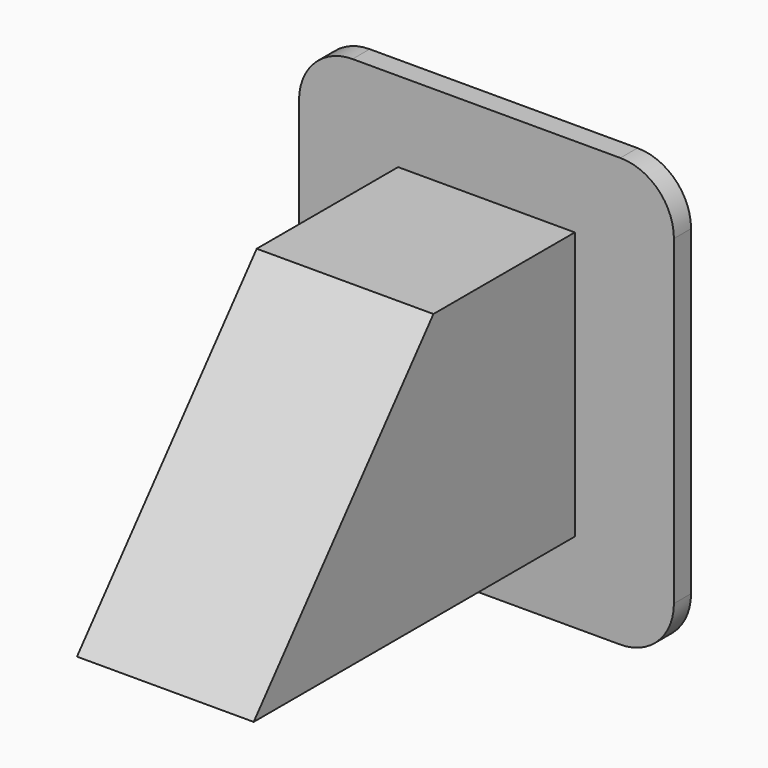
from build123d import *

# Parameters (mm, degrees)
SKETCH_W     = 70
SKETCH_H     = 80
PAD_DEPTH    = 2
PAD001_DEPTH = 12.5
PAD002_DEPTH = 4
FILLET_R     = 10


with BuildPart() as part:
    # Sketch → Pad (new body, symmetric)
    with BuildSketch(Plane.XZ):
        Rectangle(SKETCH_W, SKETCH_H)
    extrude(amount=PAD_DEPTH, both=True)

    # Sketch001 → Pad001 (join, symmetric)
    with BuildSketch(Plane.YZ):
        Polygon((0, 25), (-35, 25), (-76.954982, -25), (-71.733352, -25), (-32.690599, 21), (0, 21), align=None)
    extrude(amount=PAD001_DEPTH, both=True)

    # Sketch002 (on Face7 of Pad001) → Pad002 (join)
    with BuildSketch(Plane(origin=(12.5, 0, 0), x_dir=(0, 0, 1), z_dir=(1, 0, 0))):
        Polygon((-25, 76.954982), (-25, 0), (25, 0), (25, 35), align=None)
    pad002 = extrude(amount=PAD002_DEPTH)

    # Mirrored: Pad002 across YZ
    add(pad002.mirror(Plane.YZ))

    # Fillet
    fillet_edges = [part.edges().sort_by_distance(p)[0] for p in [
        (35, 0, 40),
        (35, 0, -40),
        (-35, 0, 40),
        (-35, 0, -40),
    ]]
    fillet(fillet_edges, radius=FILLET_R)


solid = part.part
